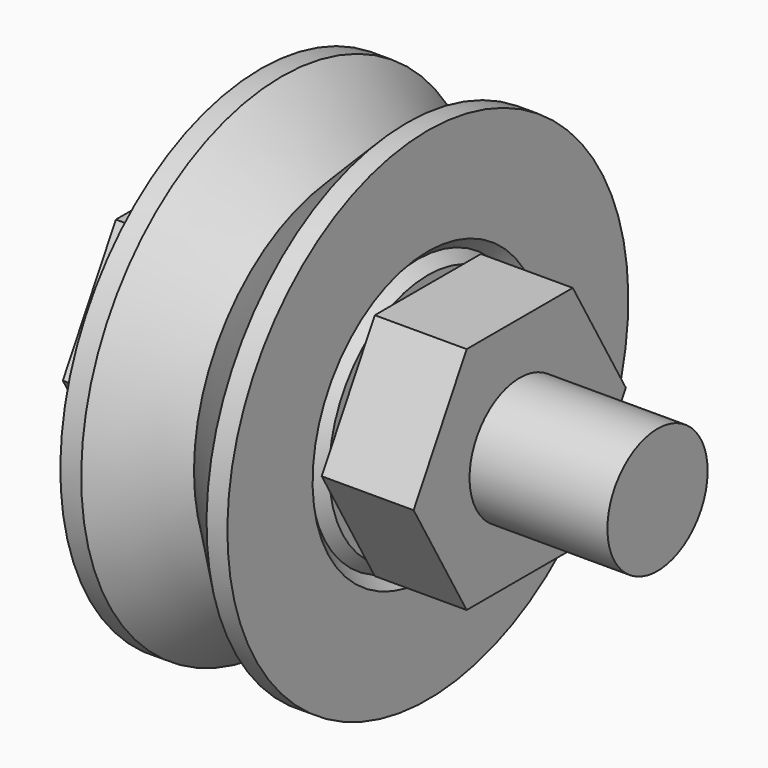
from build123d import *

# Parameters (mm, degrees)
F0_W      = 4
F0_H      = 1.7
F4_SIZE   = 0.25
F4_2_SIZE = 0.25
F5_DEPTH  = 12.5
F6_R      = 1.5
F7_DEPTH  = 2.2


with BuildPart() as f1:
    # F0 (on Front) → F1 (revolve)
    with BuildSketch(Plane.XZ):
        Polygon((2.2, 1.5), (0, 1.5), (0, 0), (11.7, 0), (11.7, 1.5), (6.2, 1.5), align=None)
    revolve(axis=Axis((5.85, 0, 0), (1, 0, 0)))


with BuildPart() as f2:
    # F0 (on Front) → F2 (revolve)
    with BuildSketch(Plane.XZ):
        with Locations((4.2, 2.35)):
            Rectangle(F0_W, F0_H)
    revolve(axis=Axis((5.85, 0, 0), (1, 0, 0)))

    # F4
    f4_edges = [f2.edges().sort_by_distance(p)[0] for p in [
        (2.2, 0, -3.2),
        (6.2, 0, -3.2),
    ]]
    chamfer(f4_edges, length=F4_SIZE)


with BuildPart() as f3:
    # F0 (on Front) → F3 (revolve)
    with BuildSketch(Plane.XZ):
        Polygon((2.2, 6), (2.2, 3.2), (6.2, 3.2), (6.2, 6), (5.7, 6), (4.2, 4.5), (2.7, 6), align=None)
    revolve(axis=Axis((5.85, 0, 0), (1, 0, 0)))

    # F4#2
    f4_2_edges = [f3.edges().sort_by_distance(p)[0] for p in [
        (2.2, 0, -3.2),
        (6.2, 0, -3.2),
    ]]
    chamfer(f4_2_edges, length=F4_2_SIZE)


with BuildPart() as f5:
    # F0 (on Front) → F5 (new body, symmetric)
    with BuildSketch(Plane.XZ):
        with BuildLine():
            Line((0, 1.5), (0, 5.5))
            Line((0, 5.5), (-2.5, 5.5))
            Line((-2.5, 5.5), (-2.5, 2.4))
            ThreePointArc((-2.5, 2.4), (-3.15, 1.75), (-3.8, 2.4))
            Line((-3.8, 2.4), (-3.8, 2.8))
            Line((-3.8, 2.8), (-6.3, 2.8))
            Line((-6.3, 2.8), (-6.3, -2.8))
            Line((-6.3, -2.8), (-3.8, -2.8))
            Line((-3.8, -2.8), (-3.8, -2.4))
            ThreePointArc((-3.8, -2.4), (-3.15, -1.75), (-2.5, -2.4))
            Line((-2.5, -2.4), (-2.5, -5.5))
            Line((-2.5, -5.5), (0, -5.5))
            Line((0, -5.5), (0, 0))
            Line((0, 0), (0, 1.5))
        make_face()
    extrude(amount=F5_DEPTH, both=True)


with BuildPart() as f7:
    # F6 (on Right) → F7 (new body)
    with BuildSketch(Plane.YZ):
        Polygon((1.5877132403, 2.75), (-1.5877132403, 2.75), (-3.1754264805, 0), (-1.5877132403, -2.75), (1.5877132403, -2.75), (3.1754264805, 0), align=None)
        Circle(F6_R, mode=Mode.SUBTRACT)
    extrude(amount=F7_DEPTH)


with BuildPart() as f8_1:
    # F8: copy of F7
    add(f7.part.moved(Location((6.2, 0, 0))))


solid = Compound([f1.part, f2.part, f3.part, f7.part, f8_1.part])
